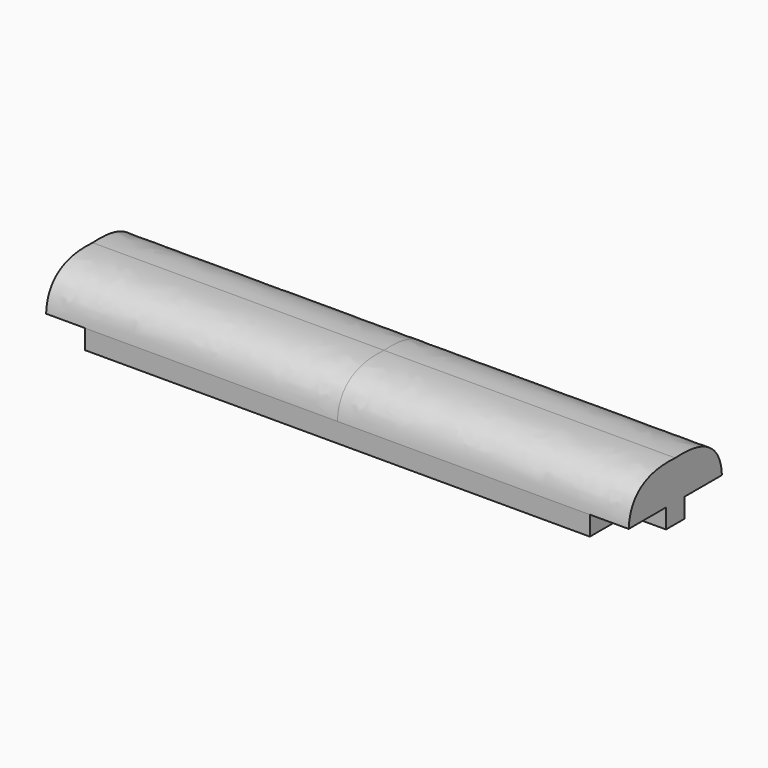
from build123d import *

# Parameters (mm, degrees)
F0_W     = 12
F0_H     = 5
F1_DEPTH = 65
F2_DEPTH = 75


with BuildPart() as f1:
    # F0 (on Right) → F1 (new body, symmetric)
    with BuildSketch(Plane.YZ):
        with Locations((-9, -2.5)):
            Rectangle(F0_W, F0_H)
        with Locations((9, -2.5)):
            Rectangle(F0_W, F0_H)
    extrude(amount=F1_DEPTH, both=True)


with BuildPart() as f2:
    # F0 (on Right) → F2 (new body, symmetric)
    with BuildSketch(Plane.YZ):
        with BuildLine():
            Line((-3, 0), (-3, -5))
            Line((-3, -5), (0, -5))
            Line((0, -5), (0, 10))
            add(Edge.make_bspline(
                [(-15, 0), (-14.555217, 8.7715), (-7.062346, 10.479116), (0, 10)],
                knots=[0, 0, 0, 0, 18.027756, 18.027756, 18.027756, 18.027756], degree=3))
            Line((-15, 0), (-3, 0))
        make_face()
        with BuildLine():
            Line((0, 10), (0, -5))
            Line((0, -5), (3, -5))
            Line((3, -5), (3, 0))
            Line((3, 0), (15, 0))
            add(Edge.make_bspline(
                [(15, 0), (14.555217, 8.7715), (7.062346, 10.479116), (0, 10)],
                knots=[0, 0, 0, 0, 18.027756, 18.027756, 18.027756, 18.027756], degree=3))
        make_face()
    extrude(amount=F2_DEPTH, both=True)


solid = Compound([f1.part, f2.part])
